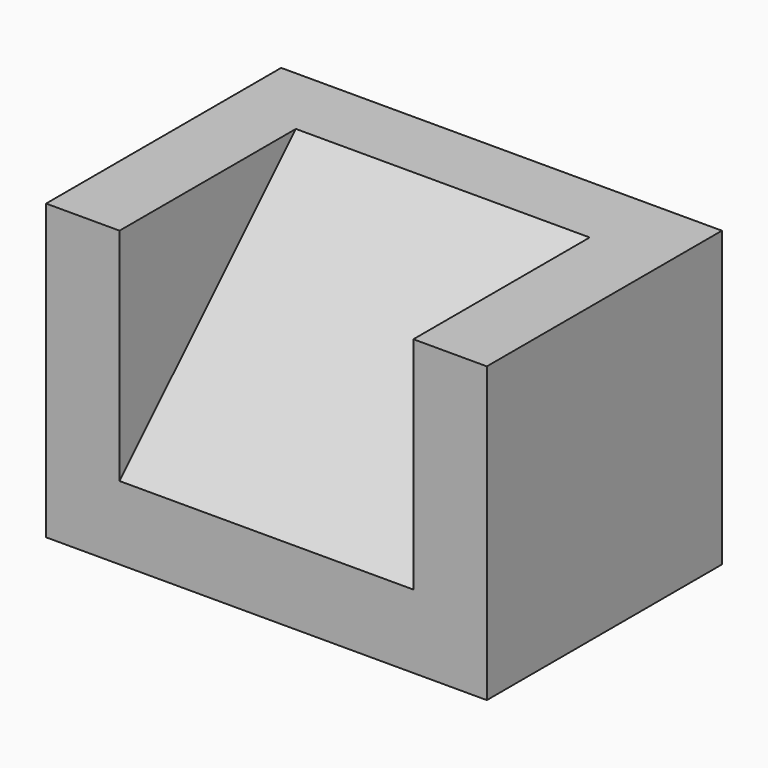
from build123d import *

# Parameters (mm, degrees)
F0_W     = 30
F0_H     = 20
F1_DEPTH = 10
F3_DEPTH = 25
F5_DEPTH = 5


with BuildPart() as f1:
    # F0 (on Front) → F1 (new body, symmetric)
    with BuildSketch(Plane.XZ):
        with Locations((15, 10)):
            Rectangle(F0_W, F0_H)
    extrude(amount=F1_DEPTH, both=True)

    # F2 (on face) → F3 (cut)
    with BuildSketch(Plane.YZ.offset(30)):
        Polygon((5, 20), (-10, 20), (-10, 5), align=None)
    extrude(amount=-F3_DEPTH, mode=Mode.SUBTRACT)

    # F4 (on face) → F5 (join)
    with BuildSketch(Plane.YZ.offset(30)):
        Polygon((-10, 20), (-10, 5), (5, 20), align=None)
    extrude(amount=-F5_DEPTH)


solid = f1.part
